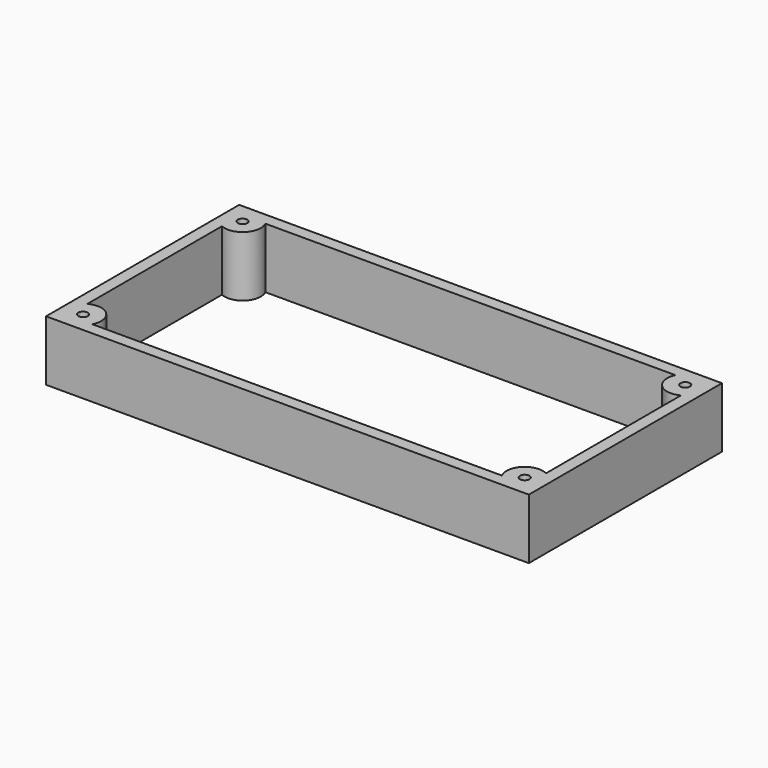
from build123d import *

# Parameters (mm, degrees)
F0_W     = 101.6
F0_H     = 50.8
F1_DEPTH = 12.7
F2_D     = 2
F2_DEPTH = 14.1986
F2_TIP   = 0.600860619
F3_D     = 2
F3_DEPTH = 14.1986
F3_TIP   = 0.600860619
F4_D     = 2
F4_DEPTH = 14.1986
F4_TIP   = 0.600860619
F5_D     = 2
F5_DEPTH = 14.2
F5_TIP   = 0.600860619


with BuildPart() as f1:
    # F0 (on Top) → F1 (new body)
    with BuildSketch(Plane.XY):
        with Locations((0, -0.6499526367)):
            Rectangle(F0_W, F0_H)
        with BuildLine():
            ThreePointArc((-48.26, 17.0429494041), (-43.933302429, 17.85827907), (-43.2645819675, 22.2100473633))
            Line((-43.2645819675, 22.2100473633), (43.0625333975, 22.2100473633))
            ThreePointArc((43.0625333975, 22.2100473633), (43.810791793, 17.7784065979), (48.26, 17.1428935527))
            Line((48.26, 17.1428935527), (48.26, -18.3574629872))
            ThreePointArc((48.26, -18.3574629872), (43.7766277668, -19.0267059263), (43.1065444682, -23.5099526367))
            Line((43.1065444682, -23.5099526367), (-43.1065444682, -23.5099526367))
            ThreePointArc((-43.1065444682, -23.5099526367), (-43.7766277668, -19.0267059263), (-48.26, -18.3574629872))
            Line((-48.26, -18.3574629872), (-48.26, 17.0429494041))
        make_face(mode=Mode.SUBTRACT)
    extrude(amount=F1_DEPTH)

    # F2
    with Locations(Plane(origin=(0, 0, 0), x_dir=(1, 0, 0), z_dir=(0, 0, -1))):
        with Locations((46.4704521, -20.5064658076)):
            Hole(F2_D / 2, depth=F2_DEPTH)
            with Locations((0, 0, -(F2_DEPTH + F2_TIP / 2))):  # 118° drill point
                Cone(0, F2_D / 2, F2_TIP, mode=Mode.SUBTRACT)

    # F3
    with Locations(Plane(origin=(0, 0, 0), x_dir=(1, 0, 0), z_dir=(0, 0, -1))):
        with Locations((-46.4704521, 21.7210352421)):
            Hole(F3_D / 2, depth=F3_DEPTH)
            with Locations((0, 0, -(F3_DEPTH + F3_TIP / 2))):  # 118° drill point
                Cone(0, F3_D / 2, F3_TIP, mode=Mode.SUBTRACT)

    # F4
    with Locations(Plane(origin=(0, 0, 0), x_dir=(1, 0, 0), z_dir=(0, 0, -1))):
        with Locations((46.4704521, 21.7210352421)):
            Hole(F4_D / 2, depth=F4_DEPTH)
            with Locations((0, 0, -(F4_DEPTH + F4_TIP / 2))):  # 118° drill point
                Cone(0, F4_D / 2, F4_TIP, mode=Mode.SUBTRACT)

    # F5
    with Locations(Plane(origin=(0, 0, 0), x_dir=(1, 0, 0), z_dir=(0, 0, -1))):
        with Locations((-46.67250067, -20.5064658076)):
            Hole(F5_D / 2, depth=F5_DEPTH)
            with Locations((0, 0, -(F5_DEPTH + F5_TIP / 2))):  # 118° drill point
                Cone(0, F5_D / 2, F5_TIP, mode=Mode.SUBTRACT)


solid = f1.part
